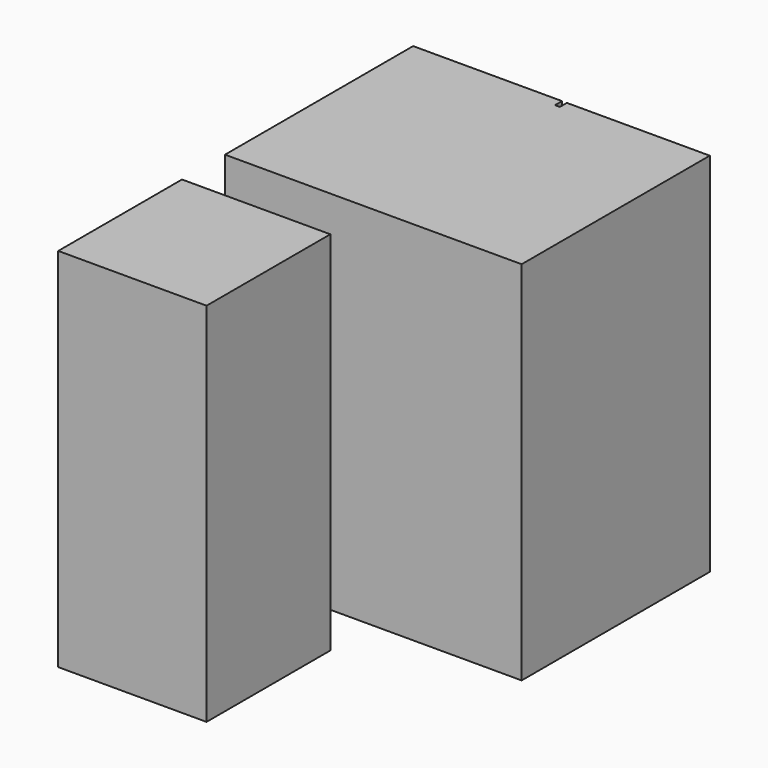
from build123d import *

# Parameters (mm, degrees)
F0_W     = 45.281228
F0_H     = 47.231562
F1_DEPTH = 111.862719


with BuildPart() as f1:
    # F0 (on Top) → F1 (new body)
    with BuildSketch(Plane.XY):
        with Locations((-0.163669, -23.615781)):
            Rectangle(F0_W, F0_H)
        Polygon((24.138615, 85.525125), (22.663392, 85.525125), (22.663392, 88.197708), (-22.804283, 88.197708), (-22.804283, 16.409993), (67.758173, 16.409993), (67.758173, 88.197708), (24.138615, 88.197708), align=None)
    extrude(amount=-F1_DEPTH)


solid = f1.part
